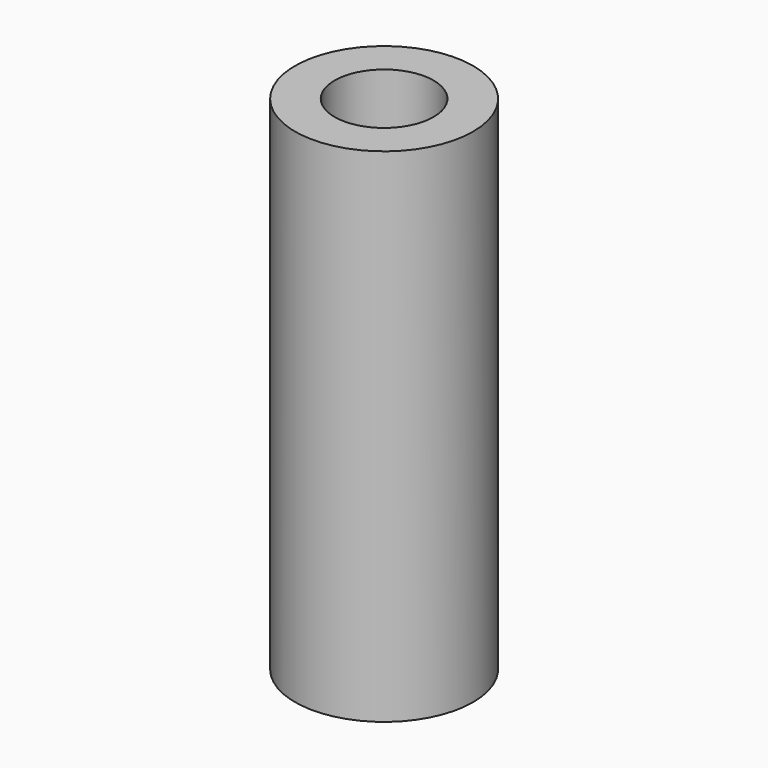
from build123d import *

# Parameters (mm, degrees)
F0_R          = 9.0043
F1_DEPTH      = 50.8
F2_R          = 5.0038
F3_DEPTH      = 85.09
F3_DEPTH_BACK = 25.4
F4_R          = 6.9977
F5_DEPTH      = 25.4


with BuildPart() as f1:
    # F0 (on Top) → F1 (new body)
    with BuildSketch(Plane.XY):
        Circle(F0_R)
    extrude(amount=F1_DEPTH)

    # F2 (on Top) → F3 (cut, two sides)
    with BuildSketch(Plane.XY) as f3_sk:
        Circle(F2_R)
    extrude(amount=F3_DEPTH, mode=Mode.SUBTRACT)
    extrude(f3_sk.sketch, amount=-F3_DEPTH_BACK, mode=Mode.SUBTRACT)

    # F4 (on Top) → F5 (cut)
    with BuildSketch(Plane.XY):
        Circle(F4_R)
    extrude(amount=F5_DEPTH, mode=Mode.SUBTRACT)


solid = f1.part
